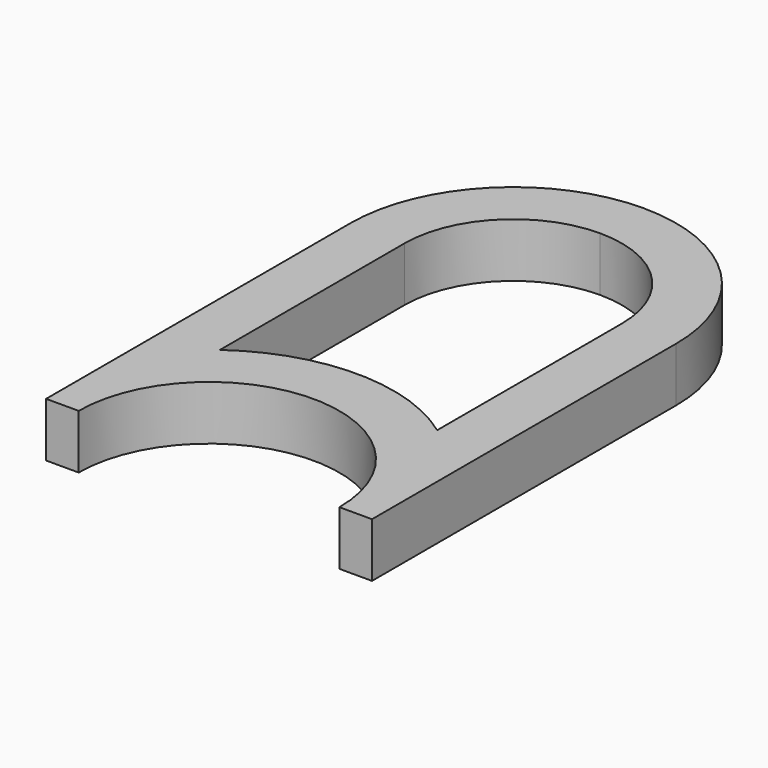
from build123d import *

# Parameters (mm, degrees)
F1_DEPTH = 25.4


with BuildPart() as f1:
    # F0 (on Top) → F1 (new body)
    with BuildSketch(Plane.XY):
        with BuildLine():
            Line((198.332757, 129.42769), (198.332757, -48.37231))
            Line((198.332757, -48.37231), (213.572757, -48.37231))
            ThreePointArc((213.572757, -48.37231), (274.532757, 12.58769), (335.492757, -48.37231))
            Line((335.492757, -48.37231), (350.732757, -48.37231))
            Line((350.732757, -48.37231), (350.732757, 129.42769))
            ThreePointArc((350.732757, 129.42769), (328.414293, 183.309227), (274.532757, 205.62769))
            ThreePointArc((274.532757, 205.62769), (220.65122, 183.309227), (198.332757, 129.42769))
        make_face()
        with BuildLine():
            ThreePointArc((223.732757, 129.42769), (238.611732, 165.348715), (274.532757, 180.22769))
            ThreePointArc((274.532757, 180.22769), (310.453781, 165.348715), (325.332757, 129.42769))
            Line((325.332757, 129.42769), (325.332757, 21.466144))
            ThreePointArc((325.332757, 21.466144), (274.532757, 37.98769), (223.732757, 21.466144))
            Line((223.732757, 21.466144), (223.732757, 129.42769))
        make_face(mode=Mode.SUBTRACT)
    extrude(amount=F1_DEPTH)


solid = f1.part
